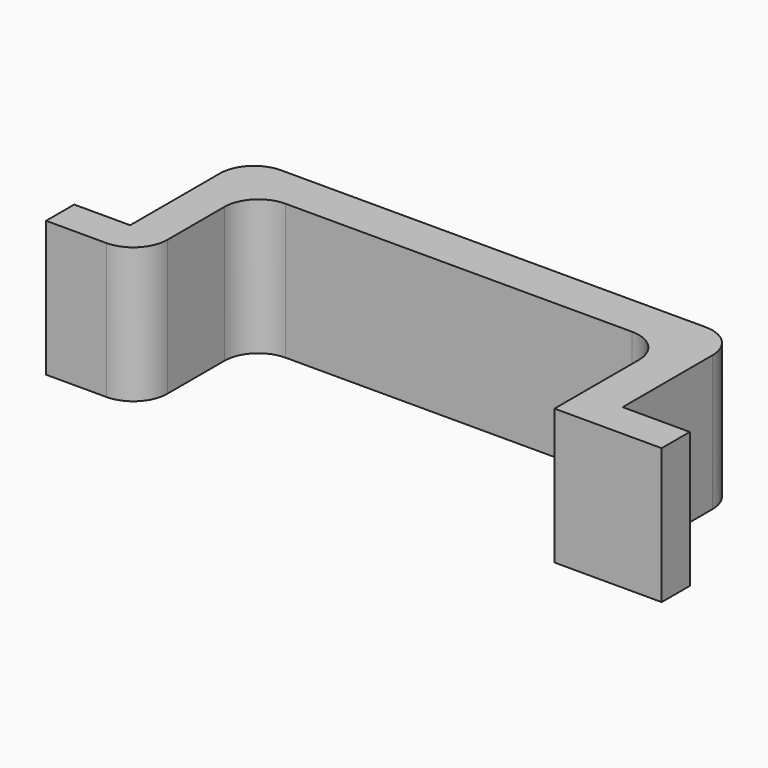
from build123d import *

# Parameters (mm, degrees)
F1_DEPTH = 25.4


with BuildPart() as f1:
    # F0 (on Top) → F1 (new body)
    with BuildSketch(Plane.XY):
        with BuildLine():
            Line((-63.153848, -8.824982), (-63.153848, -15.414655))
            Line((-63.153848, -15.414655), (-51.874321, -15.414655))
            ThreePointArc((-51.874321, -15.414655), (-47.384193, -13.554783), (-45.524321, -9.064655))
            Line((-45.524321, -9.064655), (-45.524321, 4.344876))
            ThreePointArc((-45.524321, 4.344876), (-43.66445, 8.835004), (-39.174321, 10.694876))
            Line((-39.174321, 10.694876), (25.784801, 10.694876))
            ThreePointArc((25.784801, 10.694876), (30.274929, 8.835004), (32.134801, 4.344876))
            Line((32.134801, 4.344876), (32.134801, -15.414655))
            Line((32.134801, -15.414655), (52.219063, -15.414655))
            Line((52.219063, -15.414655), (52.219063, -8.824982))
            Line((52.219063, -8.824982), (39.631739, -8.824982))
            Line((39.631739, -8.824982), (39.631739, 12.218181))
            ThreePointArc((39.631739, 12.218181), (37.771867, 16.708309), (33.281739, 18.568181))
            Line((33.281739, 18.568181), (-46.313922, 18.568181))
            ThreePointArc((-46.313922, 18.568181), (-50.80405, 16.708309), (-52.663922, 12.218181))
            Line((-52.663922, 12.218181), (-52.663922, -8.824982))
            Line((-52.663922, -8.824982), (-63.153848, -8.824982))
        make_face()
    extrude(amount=F1_DEPTH)


solid = f1.part
